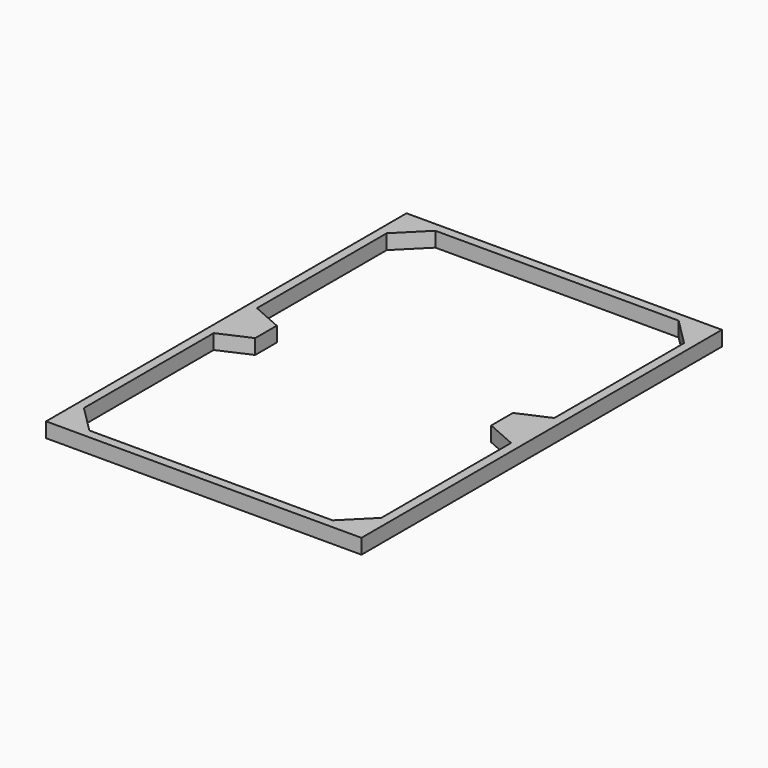
from build123d import *

# Parameters (mm, degrees)
F1_DEPTH = 0.33


with BuildPart() as f1:
    # F0 (on Top) → F1 (new body)
    with BuildSketch(Plane.XY):
        Polygon((7, 22.34034), (7, 23.34034), (6, 23.34034), (1, 23.34034), (0, 23.34034), (0, 22.34034), (0, 14.34034), (0, 13.54034), (0, 13.34034), (1, 13.34034), (6, 13.34034), (7, 13.34034), (7, 14.34034), align=None)
        Polygon((0.2, 22.54034), (0.8, 23.14034), (6.2, 23.14034), (6.8, 22.54034), (6.8, 18.94034), (6.12088, 18.641385), (6.12088, 18.039295), (6.8, 17.74034), (6.8, 14.14034), (6.2, 13.54034), (0.8, 13.54034), (0.2, 14.14034), (0.2, 17.74034), (0.879111, 18.043476), (0.879111, 18.641385), (0.2, 18.94034), align=None, mode=Mode.SUBTRACT)
    extrude(amount=F1_DEPTH)


solid = f1.part
